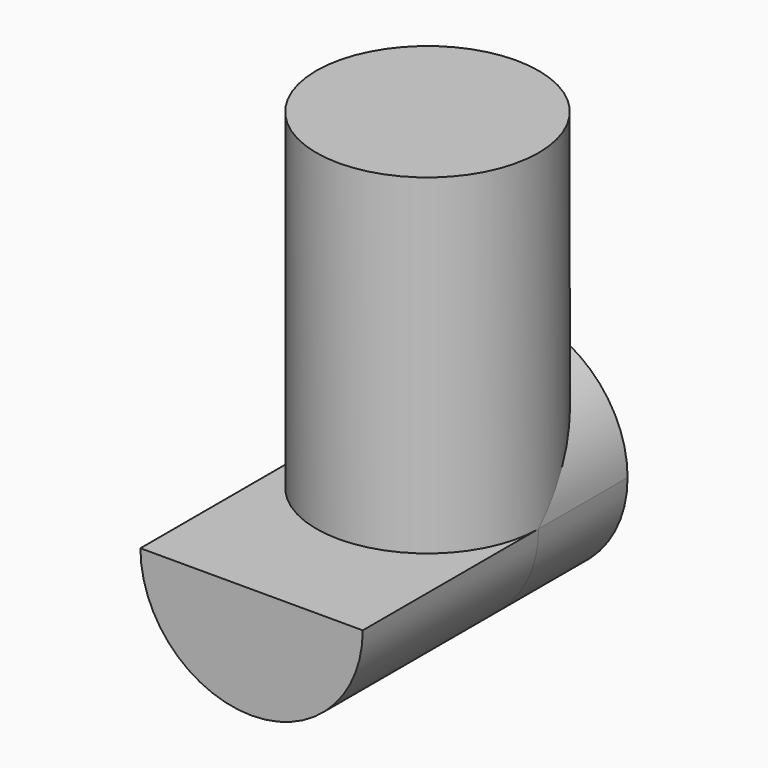
from build123d import *

# Parameters (mm, degrees)
F0_R     = 285.75
F1_DEPTH = 850.9
F2_R     = 285.75
F3_DEPTH = 285.75
F4_DEPTH = 565.15


with BuildPart() as f1:
    # F0 (on Top) → F1 (new body)
    with BuildSketch(Plane.XY):
        Circle(F0_R)
    extrude(amount=F1_DEPTH)

    # F2 (on Front) → F3 (join)
    with BuildSketch(Plane.XZ):
        Circle(F2_R)
    extrude(amount=-F3_DEPTH)

    # F3_face (on face) → F4 (join)
    with BuildSketch(Plane(origin=(0, 0, -121.276067), x_dir=(1, 0, 0), z_dir=(0, -1, 0))):
        with BuildLine():
            ThreePointArc((-285.75, 121.276067), (0, -164.473933), (285.75, 121.276067))
            Line((285.75, 121.276067), (-285.75, 121.276067))
        make_face()
    extrude(amount=F4_DEPTH)


solid = f1.part
